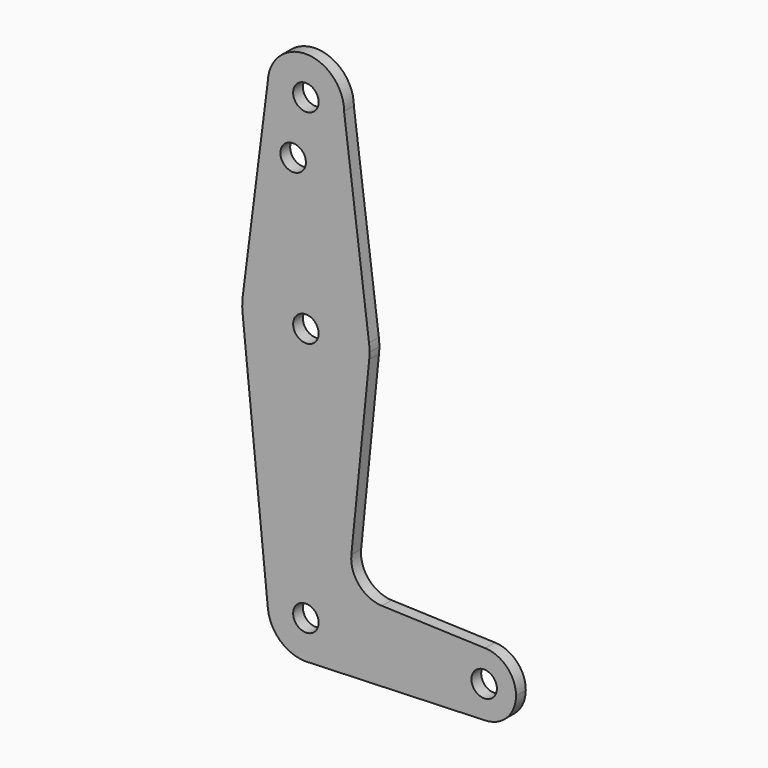
from build123d import *

# Parameters (mm, degrees)
F0_R     = 3.175
F1_DEPTH = 3.048


with BuildPart() as f1:
    # F0 (on Front) → F1 (new body)
    with BuildSketch(Plane.XZ):
        with BuildLine():
            ThreePointArc((44.732182, -7.932483), (50.161555, -5.511991), (52.3875, 0))
            ThreePointArc((52.3875, 0), (50.162007, 5.511523), (44.733482, 7.932436))
            ThreePointArc((44.733482, 7.932436), (36.5125, 0.00065), (44.732182, -7.932483))
        make_face()
        with Locations((44.45, 0)):
            Circle(F0_R, mode=Mode.SUBTRACT)
        with BuildLine():
            ThreePointArc((44.732182, -7.932483), (36.5125, 0.00065), (44.733482, 7.932436))
            Line((44.733482, 7.932436), (18.954063, 8.853717))
            ThreePointArc((18.954063, 8.853717), (13.256778, 11.567501), (11.339832, 17.579904))
            Line((11.339832, 17.579904), (15.795426, 61.9125))
            ThreePointArc((15.795426, 61.9125), (0, 47.625), (-15.795426, 61.9125))
            Line((-15.795426, 61.9125), (-9.477255, -0.9525))
            ThreePointArc((-9.477255, -0.9525), (-0.476848, 9.513056), (9.525, 0))
            ThreePointArc((9.525, 0), (6.981866, -6.479133), (0.710477, -9.498466))
            Line((0.710477, -9.498466), (44.732182, -7.932483))
        make_face()
        with BuildLine():
            Line((-0.033758, -9.52494), (0.710477, -9.498466))
            ThreePointArc((0.710477, -9.498466), (6.981866, -6.479133), (9.525, 0))
            ThreePointArc((9.525, 0), (-0.476848, 9.513056), (-9.477255, -0.9525))
            ThreePointArc((-9.477255, -0.9525), (-6.402072, -7.052595), (-0.033758, -9.52494))
        make_face()
        Circle(F0_R, mode=Mode.SUBTRACT)
        with BuildLine():
            ThreePointArc((-0.033758, -9.52494), (0.338618, -9.518979), (0.710477, -9.498466))
            Line((0.710477, -9.498466), (-0.033758, -9.52494))
        make_face()
        with BuildLine():
            ThreePointArc((-15.795426, 61.9125), (0, 47.625), (15.795426, 61.9125))
            ThreePointArc((15.795426, 61.9125), (15.855094, 62.705253), (15.875, 63.5))
            ThreePointArc((15.875, 63.5), (15.843082, 64.506168), (15.747457, 65.508289))
            ThreePointArc((15.747457, 65.508289), (-0.003865, 79.375), (-15.748433, 65.500622))
            ThreePointArc((-15.748433, 65.500622), (-15.873639, 63.707893), (-15.795426, 61.9125))
        make_face()
        with Locations((0, 63.5)):
            Circle(F0_R, mode=Mode.SUBTRACT)
        with BuildLine():
            Line((-9.52273, 114.507916), (-15.748433, 65.500622))
            ThreePointArc((-15.748433, 65.500622), (-0.003865, 79.375), (15.747457, 65.508289))
            Line((15.747457, 65.508289), (9.525, 114.3))
            ThreePointArc((9.525, 114.3), (-0.103964, 104.775567), (-9.52273, 114.507916))
        make_face()
        with Locations((-3.175, 100.0252)):
            Circle(F0_R, mode=Mode.SUBTRACT)
        with BuildLine():
            ThreePointArc((9.525, 114.3), (0.103964, 123.824433), (-9.52273, 114.507916))
            ThreePointArc((-9.52273, 114.507916), (-0.103964, 104.775567), (9.525, 114.3))
        make_face()
        with Locations((0, 114.3)):
            Circle(F0_R, mode=Mode.SUBTRACT)
    extrude(amount=F1_DEPTH)


solid = f1.part
